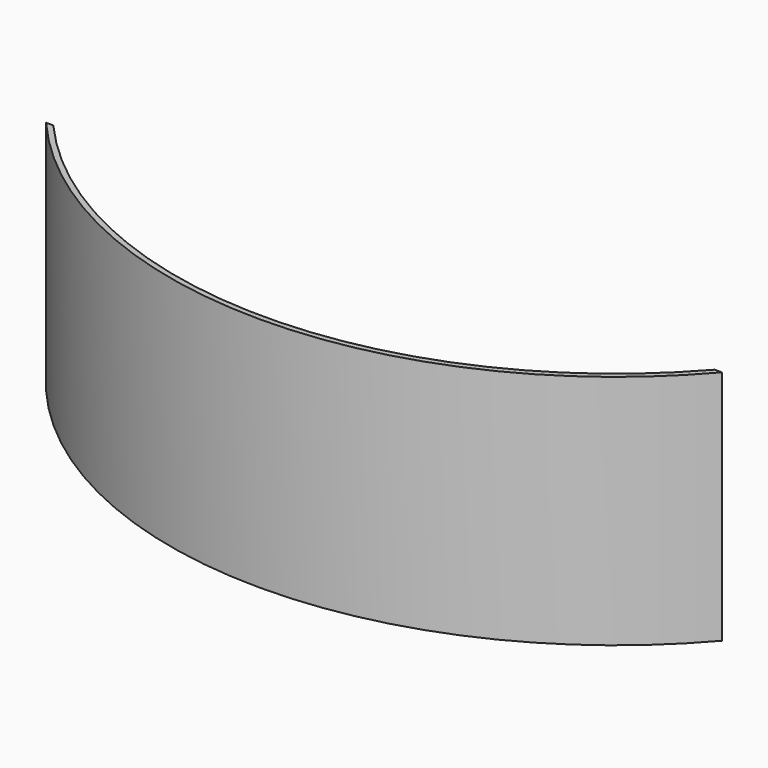
from build123d import *

# Parameters (mm, degrees)
F0_R     = 279.4
F0_R_2   = 275.971
F1_DEPTH = 148.336
F2_W     = 594.009586
F2_H     = 462.119319
F3_DEPTH = 148.337


with BuildPart() as f1:
    # F0 (on Top) → F1 (new body)
    with BuildSketch(Plane.XY):
        Circle(F0_R)
        Circle(F0_R_2, mode=Mode.SUBTRACT)
    extrude(amount=F1_DEPTH)

    # F2 (on Top) → F3 (cut, through all)
    with BuildSketch(Plane.XY):
        with Locations((4.325211, 49.224391)):
            Rectangle(F2_W, F2_H)
    extrude(amount=F3_DEPTH, mode=Mode.SUBTRACT)


solid = f1.part
